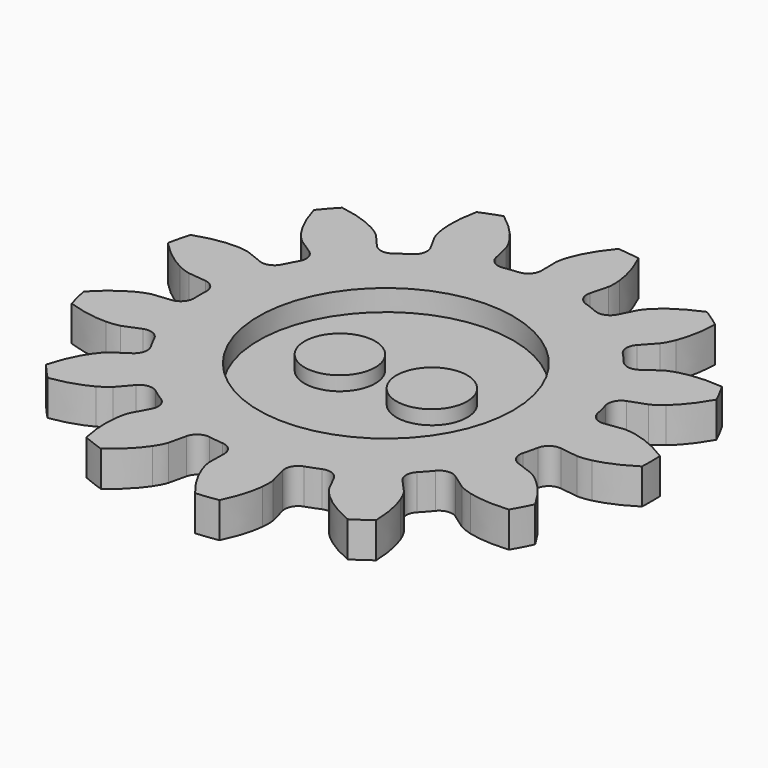
from build123d import *

# Parameters (mm, degrees)
PAD_DEPTH    = 5
SKETCH_R     = 18
POCKET_DEPTH = 3
SKETCH001_R  = 5
PAD001_DEPTH = 2


with BuildPart() as part:
    # InvoluteGear → Pad (new body)
    with BuildSketch(Plane.XY):
        with BuildLine():
            Line((27.804317, -3.797365), (30.339695, -4.139595))
            add(Edge.make_bspline(
                [(30.339695, -4.139595), (30.549864, -4.152947), (31.181147, -4.16307), (32.240617, -3.923406)],
                knots=[0, 0, 0, 0, 1, 1, 1, 1], degree=3))
            add(Edge.make_bspline(
                [(32.240617, -3.923406), (33.502961, -3.631115), (35.303995, -2.986485), (37.473156, -1.582373)],
                knots=[0, 0, 0, 0, 1, 1, 1, 1], degree=3))
            ThreePointArc((37.473156, -1.582373), (37.506557, 0), (37.473156, 1.582373))
            add(Edge.make_bspline(
                [(37.473156, 1.582373), (35.303995, 2.986485), (33.502961, 3.631115), (32.240617, 3.923406)],
                knots=[0, 0, 0, 0, 1, 1, 1, 1], degree=3))
            add(Edge.make_bspline(
                [(32.240617, 3.923406), (31.181147, 4.16307), (30.549864, 4.152947), (30.339695, 4.139595)],
                knots=[0, 0, 0, 0, 1, 1, 1, 1], degree=3))
            Line((30.339695, 4.139595), (27.804317, 3.797365))
            ThreePointArc((27.804317, 3.797365), (26.468382, 4.123958), (25.714669, 5.274306))
            ThreePointArc((25.714669, 5.274306), (25.487223, 6.282036), (25.220301, 7.280037))
            ThreePointArc((25.220301, 7.280037), (25.353088, 8.648887), (26.384223, 9.558911))
            Line((26.384223, 9.558911), (28.788231, 10.43413))
            add(Edge.make_bspline(
                [(28.788231, 10.43413), (28.980532, 10.519978), (29.54421, 10.804386), (30.370946, 11.508958)],
                knots=[0, 0, 0, 0, 1, 1, 1, 1], degree=3))
            add(Edge.make_bspline(
                [(30.370946, 11.508958), (31.352862, 12.354409), (32.648024, 13.762184), (33.916198, 16.013522)],
                knots=[0, 0, 0, 0, 1, 1, 1, 1], degree=3))
            ThreePointArc((33.916198, 16.013522), (33.210407, 17.430166), (32.445467, 18.815766))
            add(Edge.make_bspline(
                [(32.445467, 18.815766), (29.872247, 19.050986), (27.977936, 18.784795), (26.724351, 18.456965)],
                knots=[0, 0, 0, 0, 1, 1, 1, 1], degree=3))
            add(Edge.make_bspline(
                [(26.724351, 18.456965), (25.674859, 18.176817), (25.12059, 17.874482), (24.9407, 17.764989)],
                knots=[0, 0, 0, 0, 1, 1, 1, 1], degree=3))
            Line((24.9407, 17.764989), (22.854776, 16.28371))
            ThreePointArc((22.854776, 16.28371), (21.52009, 15.952054), (20.318117, 16.620368))
            ThreePointArc((20.318117, 16.620368), (19.648407, 17.40697), (18.948265, 18.166611))
            ThreePointArc((18.948265, 18.166611), (18.429706, 19.440376), (18.919822, 20.725355))
            Line((18.919822, 20.725355), (20.641731, 22.617521))
            add(Edge.make_bspline(
                [(20.641731, 22.617521), (20.772109, 22.782902), (21.13905, 23.296687), (21.543658, 24.304759)],
                knots=[0, 0, 0, 0, 1, 1, 1, 1], degree=3))
            add(Edge.make_bspline(
                [(21.543658, 24.304759), (22.020201, 25.509688), (22.512784, 27.358102), (22.589447, 29.940913)],
                knots=[0, 0, 0, 0, 1, 1, 1, 1], degree=3))
            ThreePointArc((22.589447, 29.940913), (21.306153, 30.867291), (19.984912, 31.738694))
            add(Edge.make_bspline(
                [(19.984912, 31.738694), (17.597126, 30.751135), (16.043502, 29.635105), (15.085858, 28.762256)],
                knots=[0, 0, 0, 0, 1, 1, 1, 1], degree=3))
            add(Edge.make_bspline(
                [(15.085858, 28.762256), (14.286771, 28.026474), (13.936492, 27.501188), (13.828091, 27.320637)],
                knots=[0, 0, 0, 0, 1, 1, 1, 1], degree=3))
            Line((13.828091, 27.320637), (12.669482, 25.039653))
            ThreePointArc((12.669482, 25.039653), (11.641804, 24.125727), (10.266928, 24.158905))
            ThreePointArc((10.266928, 24.158905), (9.308378, 24.544176), (8.335411, 24.891433))
            ThreePointArc((8.335411, 24.891433), (7.284301, 25.77831), (7.121118, 27.14387))
            Line((7.121118, 27.14387), (7.766459, 29.619511))
            add(Edge.make_bspline(
                [(7.766459, 29.619511), (7.805047, 29.826538), (7.891189, 30.451998), (7.780977, 31.532632)],
                knots=[0, 0, 0, 0, 1, 1, 1, 1], degree=3))
            add(Edge.make_bspline(
                [(7.780977, 31.532632), (7.642976, 32.821004), (7.220137, 34.686608), (6.087726, 37.009201)],
                knots=[0, 0, 0, 0, 1, 1, 1, 1], degree=3))
            ThreePointArc((6.087726, 37.009201), (4.520916, 37.233092), (2.946054, 37.390669))
            add(Edge.make_bspline(
                [(2.946054, 37.390669), (1.290716, 35.40657), (0.433695, 33.69637), (-0.008623, 32.478461)],
                knots=[0, 0, 0, 0, 1, 1, 1, 1], degree=3))
            add(Edge.make_bspline(
                [(-0.008623, 32.478461), (-0.374245, 31.455604), (-0.440288, 30.827703), (-0.452367, 30.617457)],
                knots=[0, 0, 0, 0, 1, 1, 1, 1], degree=3))
            Line((-0.452367, 30.617457), (-0.418238, 28.059314))
            ThreePointArc((-0.418238, 28.059314), (-0.903479, 26.772486), (-2.136289, 26.162927))
            ThreePointArc((-2.136289, 26.162927), (-3.164088, 26.058608), (-4.186986, 25.913928))
            ThreePointArc((-4.186986, 25.913928), (-5.52985, 26.210743), (-6.308949, 27.344052))
            Line((-6.308949, 27.344052), (-6.888016, 29.836028))
            add(Edge.make_bspline(
                [(-6.888016, 29.836028), (-6.950058, 30.037274), (-7.164449, 30.631124), (-7.764232, 31.536759)],
                knots=[0, 0, 0, 0, 1, 1, 1, 1], degree=3))
            add(Edge.make_bspline(
                [(-7.764232, 31.536759), (-8.485162, 32.613424), (-9.726557, 34.068831), (-11.80862, 35.599127)],
                knots=[0, 0, 0, 0, 1, 1, 1, 1], degree=3))
            ThreePointArc((-11.80862, 35.599127), (-13.300008, 35.06924), (-14.767709, 34.476893))
            add(Edge.make_bspline(
                [(-14.767709, 34.476893), (-15.311381, 31.950787), (-15.275466, 30.038202), (-15.101129, 28.754241)],
                knots=[0, 0, 0, 0, 1, 1, 1, 1], degree=3))
            add(Edge.make_bspline(
                [(-15.101129, 28.754241), (-14.949525, 27.678634), (-14.716204, 27.091964), (-14.629193, 26.900187)],
                knots=[0, 0, 0, 0, 1, 1, 1, 1], degree=3))
            Line((-14.629193, 26.900187), (-13.410144, 24.650923))
            ThreePointArc((-13.410144, 24.650923), (-13.241786, 23.285992), (-14.050109, 22.173339))
            ThreePointArc((-14.050109, 22.173339), (-14.9117, 21.603326), (-15.750195, 20.999854))
            ThreePointArc((-15.750195, 20.999854), (-17.077179, 20.638611), (-18.293711, 21.280041))
            Line((-18.293711, 21.280041), (-19.964528, 23.21747))
            add(Edge.make_bspline(
                [(-19.964528, 23.21747), (-20.112988, 23.366832), (-20.578797, 23.793028), (-21.530749, 24.316195)],
                knots=[0, 0, 0, 0, 1, 1, 1, 1], degree=3))
            add(Edge.make_bspline(
                [(-21.530749, 24.316195), (-22.669452, 24.934502), (-24.445014, 25.646295), (-26.999753, 26.033722)],
                knots=[0, 0, 0, 0, 1, 1, 1, 1], degree=3))
            ThreePointArc((-26.999753, 26.033722), (-28.074061, 24.871448), (-29.098368, 23.664876))
            add(Edge.make_bspline(
                [(-29.098368, 23.664876), (-28.405826, 21.175463), (-27.485202, 19.498644), (-26.734148, 18.442772)],
                knots=[0, 0, 0, 0, 1, 1, 1, 1], degree=3))
            add(Edge.make_bspline(
                [(-26.734148, 18.442772), (-26.10005, 17.560822), (-25.620815, 17.149781), (-25.454647, 17.020408)],
                knots=[0, 0, 0, 0, 1, 1, 1, 1], degree=3))
            Line((-25.454647, 17.020408), (-23.329948, 15.595304))
            ThreePointArc((-23.329948, 15.595304), (-22.546559, 14.464957), (-22.745218, 13.104105))
            ThreePointArc((-22.745218, 13.104105), (-23.243221, 12.198983), (-23.705223, 11.274967))
            ThreePointArc((-23.705223, 11.274967), (-24.712332, 10.338422), (-26.087605, 10.341029))
            Line((-26.087605, 10.341029), (-28.467409, 11.28007))
            add(Edge.make_bspline(
                [(-28.467409, 11.28007), (-28.668275, 11.343331), (-29.278791, 11.504236), (-30.36483, 11.525084)],
                knots=[0, 0, 0, 0, 1, 1, 1, 1], degree=3))
            add(Edge.make_bspline(
                [(-30.36483, 11.525084), (-31.660443, 11.543385), (-33.563413, 11.348502), (-36.005568, 10.504306)],
                knots=[0, 0, 0, 0, 1, 1, 1, 1], degree=3))
            ThreePointArc((-36.005568, 10.504306), (-36.416684, 8.975907), (-36.762941, 7.431521))
            add(Edge.make_bspline(
                [(-36.762941, 7.431521), (-34.992838, 5.549096), (-33.398409, 4.492182), (-32.242696, 3.906285)],
                knots=[0, 0, 0, 0, 1, 1, 1, 1], degree=3))
            add(Edge.make_bspline(
                [(-32.242696, 3.906285), (-31.271367, 3.420038), (-30.656006, 3.278791), (-30.448748, 3.241458)],
                knots=[0, 0, 0, 0, 1, 1, 1, 1], degree=3))
            Line((-30.448748, 3.241458), (-27.905143, 2.966988))
            ThreePointArc((-27.905143, 2.966988), (-26.686187, 2.330175), (-26.229671, 1.032879))
            ThreePointArc((-26.229671, 1.032879), (-26.25, 0), (-26.229671, -1.032879))
            ThreePointArc((-26.229671, -1.032879), (-26.686187, -2.330175), (-27.905143, -2.966988))
            Line((-27.905143, -2.966988), (-30.448748, -3.241458))
            add(Edge.make_bspline(
                [(-30.448748, -3.241458), (-30.656006, -3.278791), (-31.271367, -3.420038), (-32.242696, -3.906285)],
                knots=[0, 0, 0, 0, 1, 1, 1, 1], degree=3))
            add(Edge.make_bspline(
                [(-32.242696, -3.906285), (-33.398409, -4.492182), (-34.992838, -5.549096), (-36.762941, -7.431521)],
                knots=[0, 0, 0, 0, 1, 1, 1, 1], degree=3))
            ThreePointArc((-36.762941, -7.431521), (-36.416684, -8.975907), (-36.005568, -10.504306))
            add(Edge.make_bspline(
                [(-36.005568, -10.504306), (-33.563413, -11.348502), (-31.660443, -11.543385), (-30.36483, -11.525084)],
                knots=[0, 0, 0, 0, 1, 1, 1, 1], degree=3))
            add(Edge.make_bspline(
                [(-30.36483, -11.525084), (-29.278791, -11.504236), (-28.668275, -11.343331), (-28.467409, -11.28007)],
                knots=[0, 0, 0, 0, 1, 1, 1, 1], degree=3))
            Line((-28.467409, -11.28007), (-26.087605, -10.341029))
            ThreePointArc((-26.087605, -10.341029), (-24.712332, -10.338422), (-23.705223, -11.274967))
            ThreePointArc((-23.705223, -11.274967), (-23.243221, -12.198983), (-22.745218, -13.104105))
            ThreePointArc((-22.745218, -13.104105), (-22.546559, -14.464957), (-23.329948, -15.595304))
            Line((-23.329948, -15.595304), (-25.454647, -17.020408))
            add(Edge.make_bspline(
                [(-25.454647, -17.020408), (-25.620815, -17.149781), (-26.10005, -17.560822), (-26.734148, -18.442772)],
                knots=[0, 0, 0, 0, 1, 1, 1, 1], degree=3))
            add(Edge.make_bspline(
                [(-26.734148, -18.442772), (-27.485202, -19.498644), (-28.405826, -21.175463), (-29.098368, -23.664876)],
                knots=[0, 0, 0, 0, 1, 1, 1, 1], degree=3))
            ThreePointArc((-29.098368, -23.664876), (-28.074061, -24.871448), (-26.999753, -26.033722))
            add(Edge.make_bspline(
                [(-26.999753, -26.033722), (-24.445014, -25.646295), (-22.669452, -24.934502), (-21.530749, -24.316195)],
                knots=[0, 0, 0, 0, 1, 1, 1, 1], degree=3))
            add(Edge.make_bspline(
                [(-21.530749, -24.316195), (-20.578797, -23.793028), (-20.112988, -23.366832), (-19.964528, -23.21747)],
                knots=[0, 0, 0, 0, 1, 1, 1, 1], degree=3))
            Line((-19.964528, -23.21747), (-18.293711, -21.280041))
            ThreePointArc((-18.293711, -21.280041), (-17.077179, -20.638611), (-15.750195, -20.999854))
            ThreePointArc((-15.750195, -20.999854), (-14.9117, -21.603326), (-14.050109, -22.173339))
            ThreePointArc((-14.050109, -22.173339), (-13.241786, -23.285992), (-13.410144, -24.650923))
            Line((-13.410144, -24.650923), (-14.629193, -26.900187))
            add(Edge.make_bspline(
                [(-14.629193, -26.900187), (-14.716204, -27.091964), (-14.949525, -27.678634), (-15.101129, -28.754241)],
                knots=[0, 0, 0, 0, 1, 1, 1, 1], degree=3))
            add(Edge.make_bspline(
                [(-15.101129, -28.754241), (-15.275466, -30.038202), (-15.311381, -31.950787), (-14.767709, -34.476893)],
                knots=[0, 0, 0, 0, 1, 1, 1, 1], degree=3))
            ThreePointArc((-14.767709, -34.476893), (-13.300008, -35.06924), (-11.80862, -35.599127))
            add(Edge.make_bspline(
                [(-11.80862, -35.599127), (-9.726557, -34.068831), (-8.485162, -32.613424), (-7.764232, -31.536759)],
                knots=[0, 0, 0, 0, 1, 1, 1, 1], degree=3))
            add(Edge.make_bspline(
                [(-7.764232, -31.536759), (-7.164449, -30.631124), (-6.950058, -30.037274), (-6.888016, -29.836028)],
                knots=[0, 0, 0, 0, 1, 1, 1, 1], degree=3))
            Line((-6.888016, -29.836028), (-6.308949, -27.344052))
            ThreePointArc((-6.308949, -27.344052), (-5.52985, -26.210743), (-4.186986, -25.913928))
            ThreePointArc((-4.186986, -25.913928), (-3.164088, -26.058608), (-2.136289, -26.162927))
            ThreePointArc((-2.136289, -26.162927), (-0.903479, -26.772486), (-0.418238, -28.059314))
            Line((-0.418238, -28.059314), (-0.452367, -30.617457))
            add(Edge.make_bspline(
                [(-0.452367, -30.617457), (-0.440288, -30.827703), (-0.374245, -31.455604), (-0.008623, -32.478461)],
                knots=[0, 0, 0, 0, 1, 1, 1, 1], degree=3))
            add(Edge.make_bspline(
                [(-0.008623, -32.478461), (0.433695, -33.69637), (1.290716, -35.40657), (2.946054, -37.390669)],
                knots=[0, 0, 0, 0, 1, 1, 1, 1], degree=3))
            ThreePointArc((2.946054, -37.390669), (4.520916, -37.233092), (6.087726, -37.009201))
            add(Edge.make_bspline(
                [(6.087726, -37.009201), (7.220137, -34.686608), (7.642976, -32.821004), (7.780977, -31.532632)],
                knots=[0, 0, 0, 0, 1, 1, 1, 1], degree=3))
            add(Edge.make_bspline(
                [(7.780977, -31.532632), (7.891189, -30.451998), (7.805047, -29.826538), (7.766459, -29.619511)],
                knots=[0, 0, 0, 0, 1, 1, 1, 1], degree=3))
            Line((7.766459, -29.619511), (7.121118, -27.14387))
            ThreePointArc((7.121118, -27.14387), (7.284301, -25.77831), (8.335411, -24.891433))
            ThreePointArc((8.335411, -24.891433), (9.308378, -24.544176), (10.266928, -24.158905))
            ThreePointArc((10.266928, -24.158905), (11.641804, -24.125727), (12.669482, -25.039653))
            Line((12.669482, -25.039653), (13.828091, -27.320637))
            add(Edge.make_bspline(
                [(13.828091, -27.320637), (13.936492, -27.501188), (14.286771, -28.026474), (15.085858, -28.762256)],
                knots=[0, 0, 0, 0, 1, 1, 1, 1], degree=3))
            add(Edge.make_bspline(
                [(15.085858, -28.762256), (16.043502, -29.635105), (17.597126, -30.751135), (19.984912, -31.738694)],
                knots=[0, 0, 0, 0, 1, 1, 1, 1], degree=3))
            ThreePointArc((19.984912, -31.738694), (21.306153, -30.867291), (22.589447, -29.940913))
            add(Edge.make_bspline(
                [(22.589447, -29.940913), (22.512784, -27.358102), (22.020201, -25.509688), (21.543658, -24.304759)],
                knots=[0, 0, 0, 0, 1, 1, 1, 1], degree=3))
            add(Edge.make_bspline(
                [(21.543658, -24.304759), (21.13905, -23.296687), (20.772109, -22.782902), (20.641731, -22.617521)],
                knots=[0, 0, 0, 0, 1, 1, 1, 1], degree=3))
            Line((20.641731, -22.617521), (18.919822, -20.725355))
            ThreePointArc((18.919822, -20.725355), (18.429706, -19.440376), (18.948265, -18.166611))
            ThreePointArc((18.948265, -18.166611), (19.648407, -17.40697), (20.318117, -16.620368))
            ThreePointArc((20.318117, -16.620368), (21.52009, -15.952054), (22.854776, -16.28371))
            Line((22.854776, -16.28371), (24.9407, -17.764989))
            add(Edge.make_bspline(
                [(24.9407, -17.764989), (25.12059, -17.874482), (25.674859, -18.176817), (26.724351, -18.456965)],
                knots=[0, 0, 0, 0, 1, 1, 1, 1], degree=3))
            add(Edge.make_bspline(
                [(26.724351, -18.456965), (27.977936, -18.784795), (29.872247, -19.050986), (32.445467, -18.815766)],
                knots=[0, 0, 0, 0, 1, 1, 1, 1], degree=3))
            ThreePointArc((32.445467, -18.815766), (33.210407, -17.430166), (33.916198, -16.013522))
            add(Edge.make_bspline(
                [(33.916198, -16.013522), (32.648024, -13.762184), (31.352862, -12.354409), (30.370946, -11.508958)],
                knots=[0, 0, 0, 0, 1, 1, 1, 1], degree=3))
            add(Edge.make_bspline(
                [(30.370946, -11.508958), (29.54421, -10.804386), (28.980532, -10.519978), (28.788231, -10.43413)],
                knots=[0, 0, 0, 0, 1, 1, 1, 1], degree=3))
            Line((28.788231, -10.43413), (26.384223, -9.558911))
            ThreePointArc((26.384223, -9.558911), (25.353088, -8.648887), (25.220301, -7.280037))
            ThreePointArc((25.220301, -7.280037), (25.487223, -6.282036), (25.714669, -5.274306))
            ThreePointArc((25.714669, -5.274306), (26.468382, -4.123958), (27.804317, -3.797365))
        make_face()
    extrude(amount=PAD_DEPTH)

    # Sketch → Pocket (cut)
    with BuildSketch(Plane.XY.offset(5)):
        Circle(SKETCH_R)
    extrude(amount=-POCKET_DEPTH, mode=Mode.SUBTRACT)

    # Sketch001 → Pad001 (new body)
    with BuildSketch(Plane.XY.offset(2)):
        with Locations((-6.5, 0)):
            Circle(SKETCH001_R)
        with Locations((6.5, 0)):
            Circle(SKETCH001_R)
    extrude(amount=PAD001_DEPTH)


solid = part.part
